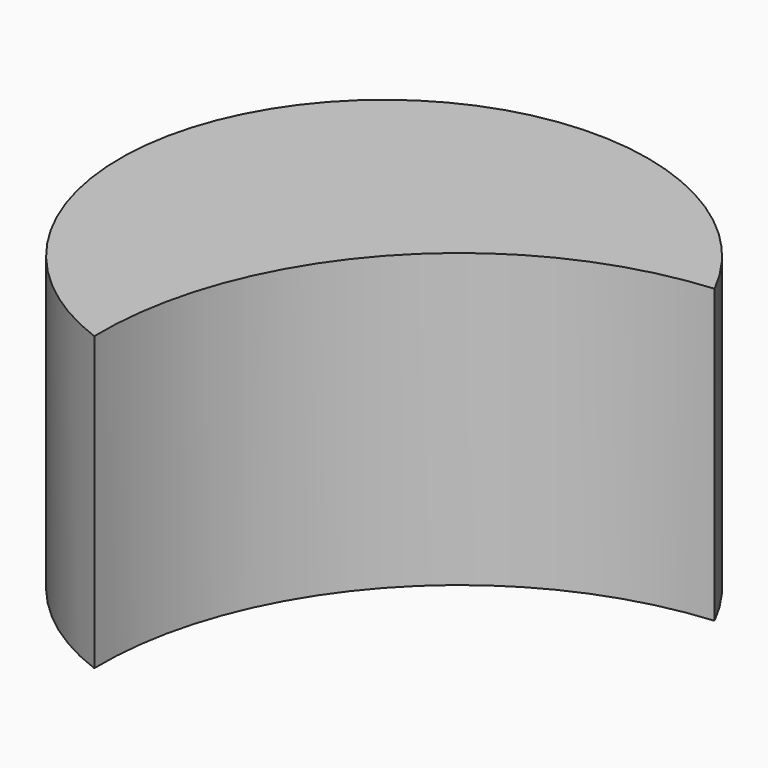
from build123d import *

# Parameters (mm, degrees)
F1_DEPTH = 25


with BuildPart() as f1:
    # F0 (on Top) → F1 (new body)
    with BuildSketch(Plane.XY):
        with BuildLine():
            ThreePointArc((-30.70324, -0.640461), (-22.846782, 20.521298), (-2.64651, 30.595672))
            ThreePointArc((-2.64651, 30.595672), (-39.640127, 35.605315), (-30.70324, -0.640461))
        make_face()
    extrude(amount=F1_DEPTH)


solid = f1.part
